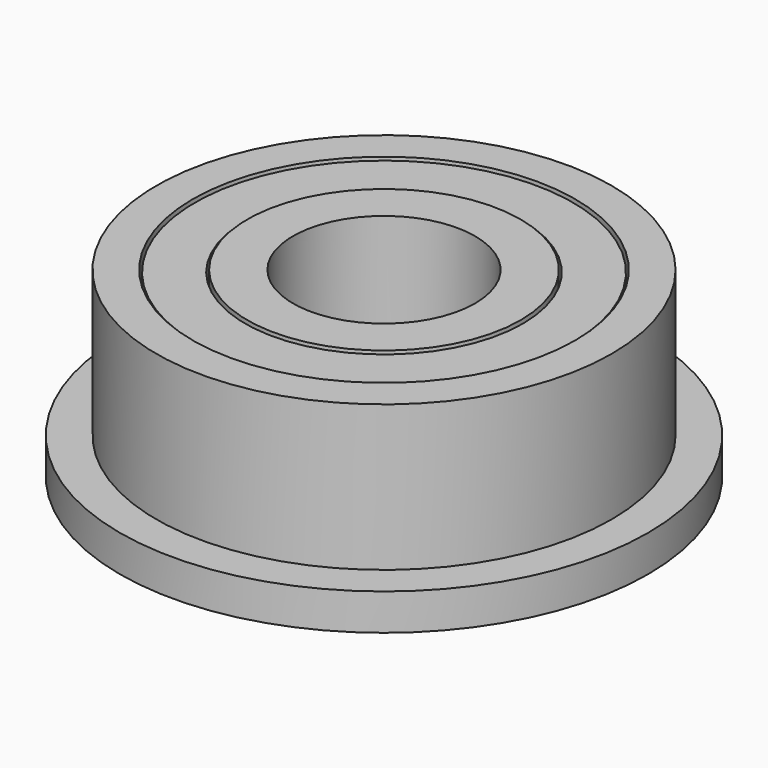
from build123d import *

# Parameters (mm, degrees)
F2_R     = 4.2
F2_R_2   = 3
F3_DEPTH = 3
F4_R     = 4.15
F4_R_2   = 3.05
F5_DEPTH = 2.95


with BuildPart() as f1:
    # F0 (on Front) → F1 (revolve)
    with BuildSketch(Plane.XZ):
        Polygon((2, 4), (2, 0), (5.8, 0), (5.8, 0.8), (5, 0.8), (5, 4), align=None)
    revolve(axis=Axis((0, 0, 2), (0, 0, 1)))

    # F2 (on face) → F3 (cut)
    with BuildSketch(Plane.XY.offset(4)):
        Circle(F2_R)
        Circle(F2_R_2, mode=Mode.SUBTRACT)
    extrude(amount=-F3_DEPTH, mode=Mode.SUBTRACT)

    # F4 (on face) → F5 (join)
    with BuildSketch(Plane.XY.offset(1)):
        Circle(F4_R)
        Circle(F4_R_2, mode=Mode.SUBTRACT)
    extrude(amount=F5_DEPTH)


solid = f1.part
